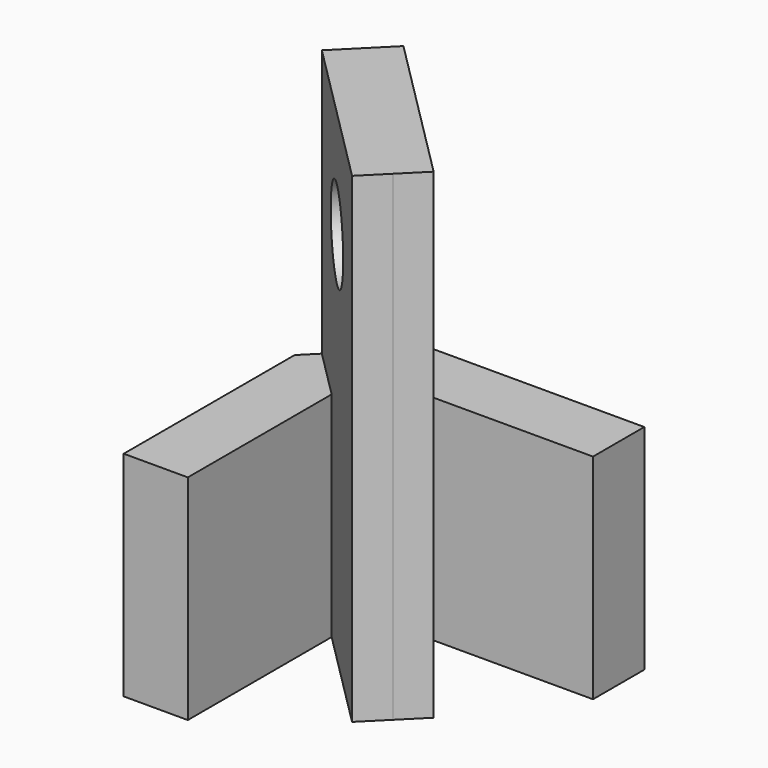
from build123d import *

# Parameters (mm, degrees)
F1_DEPTH      = 20
F3_DEPTH      = 25
F3_DEPTH_BACK = 20
F4_R          = 4.1
F5_DEPTH      = 5
F6_R          = 4.1
F7_DEPTH      = 5
F8_R          = 4.1
F9_DEPTH      = 5


with BuildPart() as f1:
    # F0 (on Top) → F1 (new body)
    with BuildSketch(Plane.XY):
        Polygon((7.0710678119, 7.0710678119), (0, 0), (0, -20), (6, -20), (6, -2.4852813742), (9.5563491861, 1.0710678119), (27.0710678119, 1.0710678119), (27.0710678119, 7.0710678119), align=None)
    extrude(amount=F1_DEPTH)

    # F2 (on face) → F3 (join, two sides)
    with BuildSketch(Plane.XY.offset(20)) as f3_sk:
        Polygon((5.6568542495, 5.6568542495), (3.5355339059, 3.5355339059), (17.6776695297, -10.6066017178), (19.7989898732, -8.4852813742), align=None)
        Polygon((17.6776695297, -10.6066017178), (3.5355339059, 3.5355339059), (1.4142135624, 1.4142135624), (15.5563491861, -12.7279220614), align=None)
    extrude(amount=F3_DEPTH)
    extrude(f3_sk.sketch, amount=-F3_DEPTH_BACK)

    # F4 (on face) → F5 (cut)
    with BuildSketch(Plane(origin=(0, 0, 0), x_dir=(0, -1, 0), z_dir=(-1, 0, 0))):
        with Locations((10, 10)):
            Circle(F4_R)
    extrude(amount=-F5_DEPTH, mode=Mode.SUBTRACT)

    # F6 (on face) → F7 (cut)
    with BuildSketch(Plane(origin=(0, 7.0710678119, 0), x_dir=(-1, 0, 0), z_dir=(0, 1, 0))):
        with Locations((-17.0710678119, 10)):
            Circle(F6_R)
    extrude(amount=-F7_DEPTH, mode=Mode.SUBTRACT)

    # F8 (on face) → F9 (cut)
    with BuildSketch(Plane(origin=(1.4142135624, 1.4142135624, 0), x_dir=(0.7071067812, -0.7071067812, 0), z_dir=(-0.7071067812, -0.7071067812, 0))):
        with Locations((10, 35)):
            Circle(F8_R)
    extrude(amount=-F9_DEPTH, mode=Mode.SUBTRACT)


solid = f1.part
